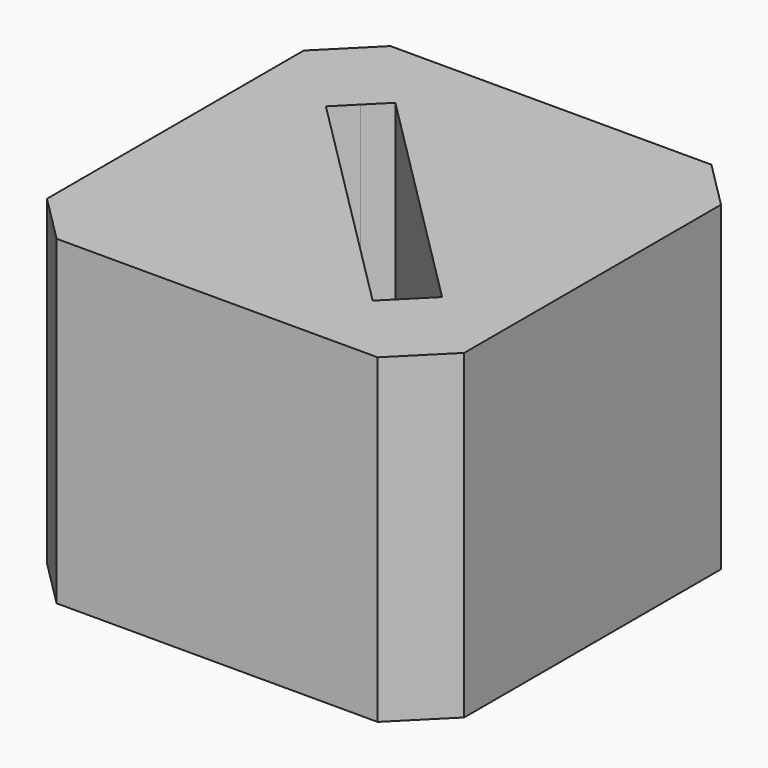
from build123d import *

# Parameters (mm, degrees)
F0_W     = 26
F0_H     = 26
F1_DEPTH = 20
F2_SIZE  = 3
F4_DEPTH = 19
F5_R     = 4
F6_DEPTH = 6
F7_R     = 4
F8_DEPTH = 6


with BuildPart() as f1:
    # F0 (on Top) → F1 (new body)
    with BuildSketch(Plane.XY):
        Rectangle(F0_W, F0_H)
    extrude(amount=F1_DEPTH)

    # F2
    f2_edges = [f1.edges().sort_by_distance(p)[0] for p in [
        (-13, -13, 10),
        (13, -13, 10),
        (13, 13, 10),
        (-13, 13, 10),
    ]]
    chamfer(f2_edges, length=F2_SIZE)

    # F3 (on face) → F4 (cut)
    with BuildSketch(Plane.XY.offset(20)):
        Polygon((-6.081118, 8.485281), (-7.2832, 7.2832), (0, 0), (7.2832, -7.2832), (8.485281, -6.081118), align=None)
        Polygon((0, 0), (-7.2832, 7.2832), (-8.485281, 6.081118), (-1.202082, -1.202082), align=None)
        Polygon((7.2832, -7.2832), (0, 0), (-1.202082, -1.202082), (6.081118, -8.485281), align=None)
    extrude(amount=-F4_DEPTH, mode=Mode.SUBTRACT)

    # F5 (on face) → F6 (cut)
    with BuildSketch(Plane(origin=(-13, 0, 0), x_dir=(0, -1, 0), z_dir=(-1, 0, 0))):
        with Locations((0, 10)):
            Circle(F5_R)
    extrude(amount=-F6_DEPTH, mode=Mode.SUBTRACT)

    # F7 (on face) → F8 (cut)
    with BuildSketch(Plane(origin=(0, 13, 0), x_dir=(-1, 0, 0), z_dir=(0, 1, 0))):
        with Locations((0, 10)):
            Circle(F7_R)
    extrude(amount=-F8_DEPTH, mode=Mode.SUBTRACT)


solid = f1.part
